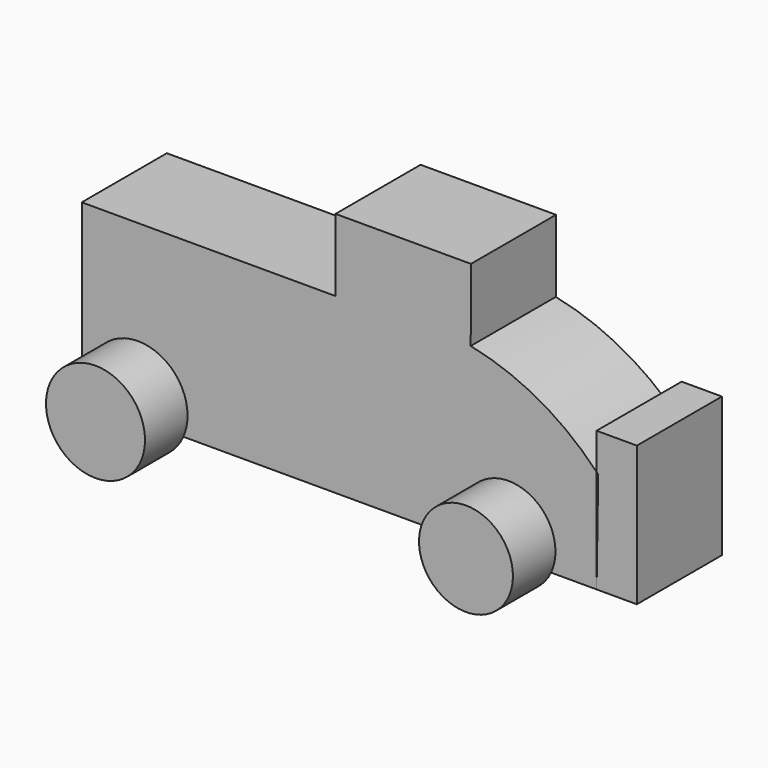
from build123d import *

# Parameters (mm, degrees)
F0_R     = 15.308346
F1_DEPTH = 25.4
F2_R     = 11.829815
F2_R_2   = 11.217212
F3_DEPTH = 12.7
F4_R     = 12.308057
F4_R_2   = 12.221176
F5_DEPTH = 12.7


with BuildPart() as f1:
    # F0 (on Front) → F1 (new body)
    with BuildSketch(Plane.XZ):
        with BuildLine():
            Line((-16.408481, 34.410242), (-16.408481, 17.12689))
            ThreePointArc((-16.408481, 17.12689), (-0.261047, -9.847064), (15.886386, 17.12689))
            Line((15.886386, 17.12689), (15.943475, 34.410242))
            Line((15.943475, 34.410242), (-16.408481, 34.410242))
        make_face()
        with Locations((-0.261047, 8.473086)):
            Circle(F0_R, mode=Mode.SUBTRACT)
        with BuildLine():
            Line((-16.408481, 17.12689), (-77.029042, 17.12689))
            Line((-77.029042, 17.12689), (-77.029042, -24.293557))
            Line((-77.029042, -24.293557), (45.952621, -24.293557))
            Line((45.952621, -24.293557), (45.952621, 0.411144))
            ThreePointArc((45.952621, 0.411144), (32.203921, 11.079271), (15.886386, 17.12689))
            ThreePointArc((15.886386, 17.12689), (-0.261047, -9.847064), (-16.408481, 17.12689))
        make_face()
        with BuildLine():
            Line((46.338335, 0), (45.952621, -24.293557))
            Line((45.952621, -24.293557), (55.575985, -24.293557))
            Line((55.575985, -24.293557), (55.575985, 9.081191))
            Line((55.575985, 9.081191), (45.952621, 9.081191))
            Line((45.952621, 9.081191), (45.952621, 0.411144))
            ThreePointArc((45.952621, 0.411144), (46.145983, 0.206047), (46.338335, 0))
        make_face()
        with Locations((-0.261047, 8.473086)):
            Circle(F0_R)
    extrude(amount=-F1_DEPTH)

    # F2 (on Front) → F3 (join)
    with BuildSketch(Plane.XZ):
        with Locations((-63.58815, -19.518269)):
            Circle(F2_R)
        with Locations((24.914529, -19.518269)):
            Circle(F2_R_2)
    extrude(amount=F3_DEPTH)

    # F4 (on face) → F5 (join)
    with BuildSketch(Plane(origin=(0, 25.4, 0), x_dir=(-1, 0, 0), z_dir=(0, 1, 0))):
        with Locations((-24.874324, -17.730335)):
            Circle(F4_R)
        with Locations((63.926339, -17.730335)):
            Circle(F4_R_2)
    extrude(amount=F5_DEPTH)


solid = f1.part
